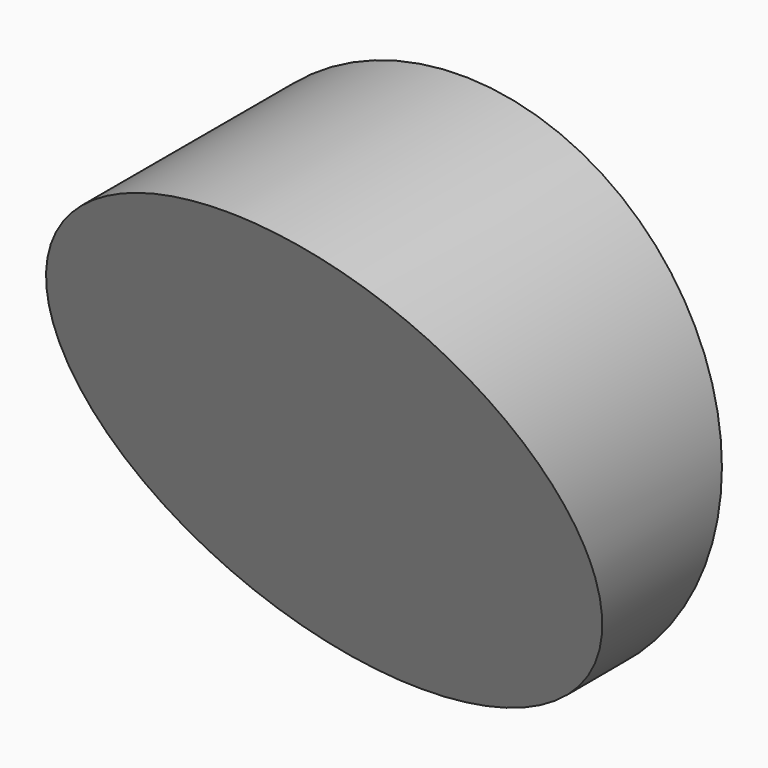
from build123d import *

# Parameters (mm, degrees)
F0_R          = 53
F1_DEPTH      = 60
F3_DEPTH      = 53.001
F3_DEPTH_BACK = 53.001


with BuildPart() as f1:
    # F0 (on Front) → F1 (new body)
    with BuildSketch(Plane.XZ):
        Circle(F0_R)
    extrude(amount=F1_DEPTH)

    # F2 (on Right) → F3 (cut, two sides)
    with BuildSketch(Plane.YZ) as f3_sk:
        Polygon((-60, -53), (-10, -53), (-60, 53), align=None)
    extrude(amount=F3_DEPTH, mode=Mode.SUBTRACT)
    extrude(f3_sk.sketch, amount=-F3_DEPTH_BACK, mode=Mode.SUBTRACT)


solid = f1.part
